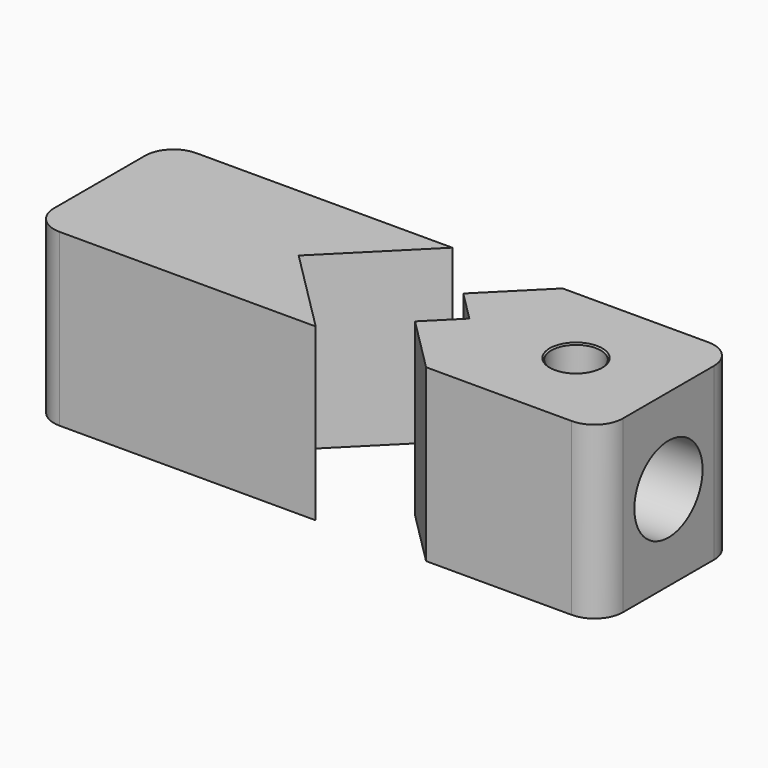
from build123d import *

# Parameters (mm, degrees)
F1_DEPTH       = 6
F2_DEPTH       = 6
F4_D           = 6
F4_DEPTH       = 10
F4_TIP         = 1.8025818571
F6_D           = 3.5
F6_DEPTH       = 6.5
F6_CSINK_D     = 3.7
F6_CSINK_ANGLE = 90
F6_TIP         = 1.0515060833
F8_D           = 3
F8_DEPTH       = 5
F8_TIP         = 0.9012909285
F9_R           = 2
F9_2_R         = 2


with BuildPart() as f1:
    # F0 (on Top) → F1 (new body, symmetric)
    with BuildSketch(Plane.XY):
        Polygon((0, 6), (-20, 6), (-20, -6), (0, -6), (-3.8786796564, -2.1213203436), (-6, 0), (-3.8786796564, 2.1213203436), align=None)
    extrude(amount=F1_DEPTH, both=True)

    # F8
    with Locations(Plane(origin=(0, 6, 0), x_dir=(-1, 0, 0), z_dir=(0, 1, 0))):
        with Locations((13, 0)):
            Hole(F8_D / 2, depth=F8_DEPTH)
            with Locations((0, 0, -(F8_DEPTH + F8_TIP / 2))):  # 118° drill point
                Cone(0, F8_D / 2, F8_TIP, mode=Mode.SUBTRACT)

    # F9#2
    f9_2_edges = [f1.edges().sort_by_distance(p)[0] for p in [
        (-20, 6, 0),
        (-20, -6, 0),
    ]]
    fillet(f9_2_edges, radius=F9_2_R)


with BuildPart() as f2:
    # F0 (on Top) → F2 (new body, symmetric)
    with BuildSketch(Plane.XY):
        Polygon((20, 6), (7.7573593129, 6), (3.8786796564, 2.1213203436), (6, 0), (3.8786796564, -2.1213203436), (7.7573593129, -6), (20, -6), align=None)
    extrude(amount=F2_DEPTH, both=True)

    # F4
    with Locations(Plane.YZ.offset(20)):
        with Locations((0, 0)):
            Hole(F4_D / 2, depth=F4_DEPTH)
            with Locations((0, 0, -(F4_DEPTH + F4_TIP / 2))):  # 118° drill point
                Cone(0, F4_D / 2, F4_TIP, mode=Mode.SUBTRACT)

    # F6
    with Locations(Plane.XY.offset(6)):
        with Locations((13.5, 0)):
            CounterSinkHole(F6_D / 2, F6_CSINK_D / 2, depth=F6_DEPTH, counter_sink_angle=F6_CSINK_ANGLE)
            with Locations((0, 0, -(F6_DEPTH + F6_TIP / 2))):  # 118° drill point
                Cone(0, F6_D / 2, F6_TIP, mode=Mode.SUBTRACT)

    # F9
    f9_edges = [f2.edges().sort_by_distance(p)[0] for p in [
        (20, 6, 0),
        (20, -6, 0),
    ]]
    fillet(f9_edges, radius=F9_R)


solid = Compound([f1.part, f2.part])
